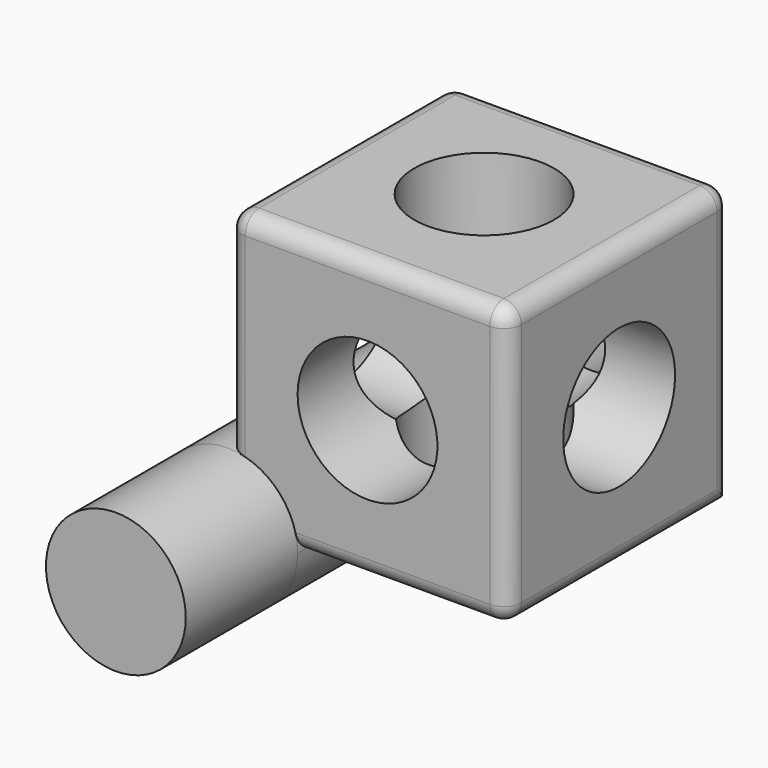
from build123d import *

# Parameters (mm, degrees)
F1_DEPTH       = 101.6
F2_R           = 25.4
F4_DEPTH       = 101.6
F3_R           = 25.4
F5_DEPTH       = 101.6
F6_R           = 25.4
F7_DEPTH       = 101.6
F8_R           = 6.35
F10_R          = 25.4
F11_DEPTH      = 50.8
F11_DEPTH_BACK = 152.4


with BuildPart() as f1:
    # F0 (on Front) → F1 (new body)
    with BuildSketch(Plane.XZ):
        Polygon((0, 3.0090576449), (0, 0), (101.6, 0), (101.6, 101.6), (0, 101.6), align=None)
    extrude(amount=F1_DEPTH)

    # F2 (on face) → F4 (cut)
    with BuildSketch(Plane.XY.offset(101.6)):
        with Locations((50.8, -48.6417040229)):
            Circle(F2_R)
    extrude(amount=-F4_DEPTH, mode=Mode.SUBTRACT)

    # F3 (on face) → F5 (cut)
    with BuildSketch(Plane.YZ.offset(101.6)):
        with Locations((-50.8, 50.8)):
            Circle(F3_R)
    extrude(amount=-F5_DEPTH, mode=Mode.SUBTRACT)

    # F6 (on face) → F7 (cut)
    with BuildSketch(Plane(origin=(0, 0, 0), x_dir=(-1, 0, 0), z_dir=(0, 1, 0))):
        with Locations((-50.8, 50.8)):
            Circle(F6_R)
    extrude(amount=-F7_DEPTH, mode=Mode.SUBTRACT)

    # F8
    f8_edges = [f1.edges().sort_by_distance(p)[0] for p in [
        (101.6, -50.8, 0),
        (101.6, -101.6, 50.8),
        (101.6, 0, 50.8),
        (101.6, -50.8, 101.6),
        (50.8, -101.6, 101.6),
        (0, -50.8, 101.6),
        (50.8, 0, 101.6),
        (50.8, -101.6, 0),
        (0, -101.6, 50.8),
        (0, -50.8, 0),
        (0, 0, 50.8),
    ]]
    fillet(f8_edges, radius=F8_R)

    # F10 (on offset) → F11 (join, two sides)
    with BuildSketch(Plane.XZ.offset(101.6)) as f11_sk:
        Circle(F10_R)
    extrude(amount=F11_DEPTH)
    extrude(f11_sk.sketch, amount=-F11_DEPTH_BACK)


solid = f1.part
